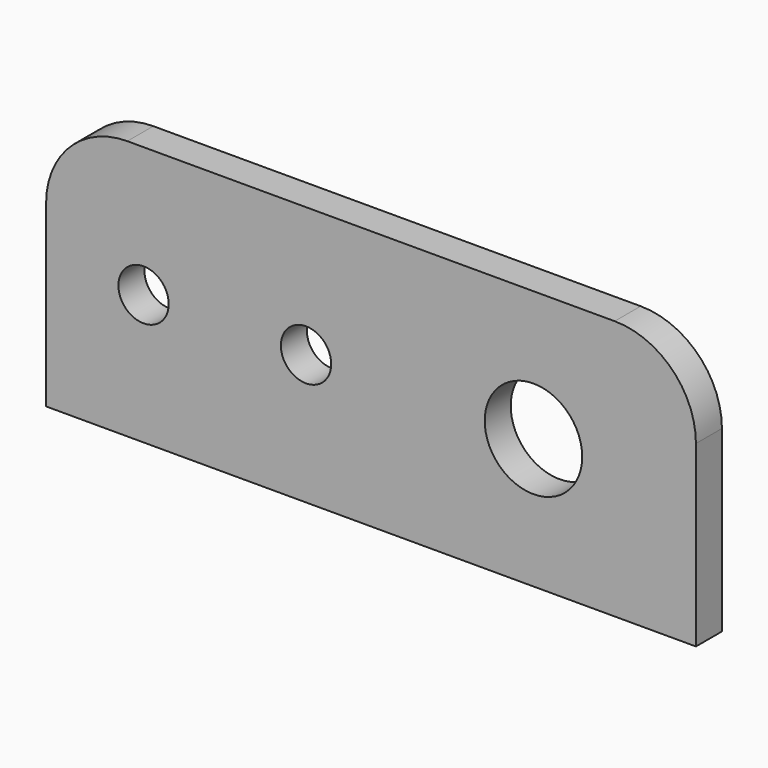
from build123d import *

# Parameters (mm, degrees)
F0_R     = 2.45745
F0_R_2   = 4.7625
F1_DEPTH = 3.175


with BuildPart() as f1:
    # F0 (on Front) → F1 (new body)
    with BuildSketch(Plane.XZ):
        with BuildLine():
            Line((-31.75, -12.7), (31.75, -12.7))
            Line((31.75, -12.7), (31.75, 4.7625))
            ThreePointArc((31.75, 4.7625), (29.42516, 10.37516), (23.8125, 12.7))
            Line((23.8125, 12.7), (-23.8125, 12.7))
            ThreePointArc((-23.8125, 12.7), (-29.42516, 10.37516), (-31.75, 4.7625))
            Line((-31.75, 4.7625), (-31.75, -12.7))
        make_face()
        with Locations((-22.225, 0)):
            Circle(F0_R, mode=Mode.SUBTRACT)
        with Locations((-6.35, 0)):
            Circle(F0_R, mode=Mode.SUBTRACT)
        with Locations((15.875, 0)):
            Circle(F0_R_2, mode=Mode.SUBTRACT)
    extrude(amount=F1_DEPTH)


solid = f1.part
